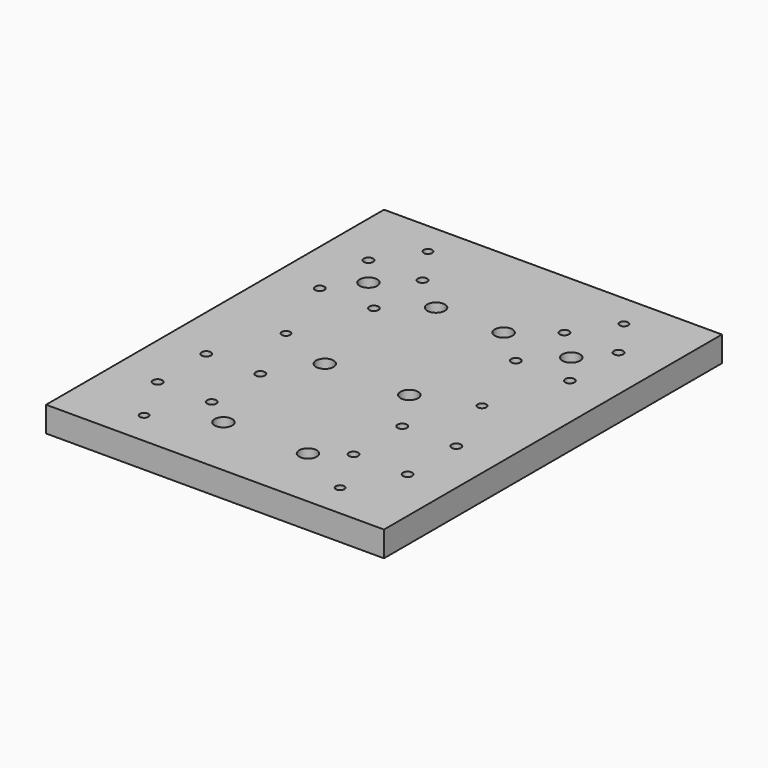
from build123d import *

# Parameters (mm, degrees)
SKETCH_W        = 200
SKETCH_H        = 250
PAD_DEPTH       = 15
SKETCH001_R     = 3.25
POCKET_DEPTH    = 15
SKETCH002_R     = 5.2
POCKET001_DEPTH = 6.2
SKETCH003_R     = 2.5
POCKET002_DEPTH = 15
SKETCH004_R     = 3.25
POCKET003_DEPTH = 15
SKETCH005_R     = 5.2
POCKET004_DEPTH = 7
SKETCH006_R     = 2.75
POCKET005_DEPTH = 15
SKETCH007_R     = 5
POCKET006_DEPTH = 6


with BuildPart() as part:
    # Sketch → Pad (new body)
    with BuildSketch(Plane.XY):
        with Locations((100, 125)):
            Rectangle(SKETCH_W, SKETCH_H)
    extrude(amount=PAD_DEPTH)

    # Sketch001 (on Face6 of Pad) → Pocket (cut)
    with BuildSketch(Plane.XY.offset(15)):
        with Locations((125, 37.5)):
            Circle(SKETCH001_R)
        with Locations((75, 37.5)):
            Circle(SKETCH001_R)
        with Locations((125, 112.5)):
            Circle(SKETCH001_R)
        with Locations((75, 112.5)):
            Circle(SKETCH001_R)
    extrude(amount=-POCKET_DEPTH, mode=Mode.SUBTRACT)

    # Sketch002 (on Face5 of Pocket) → Pocket001 (cut)
    with BuildSketch(Plane.XY.offset(15)):
        with Locations((75, 112.5)):
            Circle(SKETCH002_R)
        with Locations((125, 112.5)):
            Circle(SKETCH002_R)
        with Locations((75, 37.5)):
            Circle(SKETCH002_R)
        with Locations((125, 37.5)):
            Circle(SKETCH002_R)
    extrude(amount=-POCKET001_DEPTH, mode=Mode.SUBTRACT)

    # Sketch003 (on Face5 of Pocket001) → Pocket002 (cut)
    with BuildSketch(Plane.XY.offset(15)):
        with Locations((42, 230)):
            Circle(SKETCH003_R)
        with Locations((42, 125)):
            Circle(SKETCH003_R)
        with Locations((42, 20)):
            Circle(SKETCH003_R)
        with Locations((158, 230)):
            Circle(SKETCH003_R)
        with Locations((158, 125)):
            Circle(SKETCH003_R)
        with Locations((158, 20)):
            Circle(SKETCH003_R)
    extrude(amount=-POCKET002_DEPTH, mode=Mode.SUBTRACT)

    # Sketch004 (on Face5 of Pocket002) → Pocket003 (cut)
    with BuildSketch(Plane.XY.offset(15)):
        with Locations((40, 188.5)):
            Circle(SKETCH004_R)
        with Locations((80, 188.5)):
            Circle(SKETCH004_R)
        with Locations((120, 188.5)):
            Circle(SKETCH004_R)
        with Locations((160, 188.5)):
            Circle(SKETCH004_R)
    extrude(amount=-POCKET003_DEPTH, mode=Mode.SUBTRACT)

    # Sketch005 (on Face5 of Pocket003) → Pocket004 (cut)
    with BuildSketch(Plane.XY.offset(15)):
        with Locations((40, 188.5)):
            Circle(SKETCH005_R)
        with Locations((80, 188.5)):
            Circle(SKETCH005_R)
        with Locations((120, 188.5)):
            Circle(SKETCH005_R)
        with Locations((160, 188.5)):
            Circle(SKETCH005_R)
    extrude(amount=-POCKET004_DEPTH, mode=Mode.SUBTRACT)

    # Sketch006 (on Face5 of Pocket004) → Pocket005 (cut)
    with BuildSketch(Plane.XY.offset(15)):
        with Locations((26, 206)):
            Circle(SKETCH006_R)
        with Locations((58, 206)):
            Circle(SKETCH006_R)
        with Locations((26, 170)):
            Circle(SKETCH006_R)
        with Locations((58, 170)):
            Circle(SKETCH006_R)
        with Locations((26, 86)):
            Circle(SKETCH006_R)
        with Locations((58, 86)):
            Circle(SKETCH006_R)
        with Locations((26, 50)):
            Circle(SKETCH006_R)
        with Locations((58, 50)):
            Circle(SKETCH006_R)
        with Locations((142, 206)):
            Circle(SKETCH006_R)
        with Locations((174, 206)):
            Circle(SKETCH006_R)
        with Locations((142, 170)):
            Circle(SKETCH006_R)
        with Locations((174, 170)):
            Circle(SKETCH006_R)
        with Locations((142, 86)):
            Circle(SKETCH006_R)
        with Locations((174, 86)):
            Circle(SKETCH006_R)
        with Locations((142, 50)):
            Circle(SKETCH006_R)
        with Locations((174, 50)):
            Circle(SKETCH006_R)
    extrude(amount=-POCKET005_DEPTH, mode=Mode.SUBTRACT)

    # Sketch007 (on Face4 of Pocket005) → Pocket006 (cut)
    with BuildSketch(Plane(origin=(0, 0, 0), x_dir=(1, 0, 0), z_dir=(0, 0, -1))):
        with Locations((26, -50)):
            Circle(SKETCH007_R)
        with Locations((58, -50)):
            Circle(SKETCH007_R)
        with Locations((142, -50)):
            Circle(SKETCH007_R)
        with Locations((174, -50)):
            Circle(SKETCH007_R)
        with Locations((142, -86)):
            Circle(SKETCH007_R)
        with Locations((174, -86)):
            Circle(SKETCH007_R)
        with Locations((26, -86)):
            Circle(SKETCH007_R)
        with Locations((58, -86)):
            Circle(SKETCH007_R)
        with Locations((26, -170)):
            Circle(SKETCH007_R)
        with Locations((58, -170)):
            Circle(SKETCH007_R)
        with Locations((26, -206)):
            Circle(SKETCH007_R)
        with Locations((58, -206)):
            Circle(SKETCH007_R)
        with Locations((142, -170)):
            Circle(SKETCH007_R)
        with Locations((174, -170)):
            Circle(SKETCH007_R)
        with Locations((142, -206)):
            Circle(SKETCH007_R)
        with Locations((174, -206)):
            Circle(SKETCH007_R)
    extrude(amount=-POCKET006_DEPTH, mode=Mode.SUBTRACT)


solid = part.part
